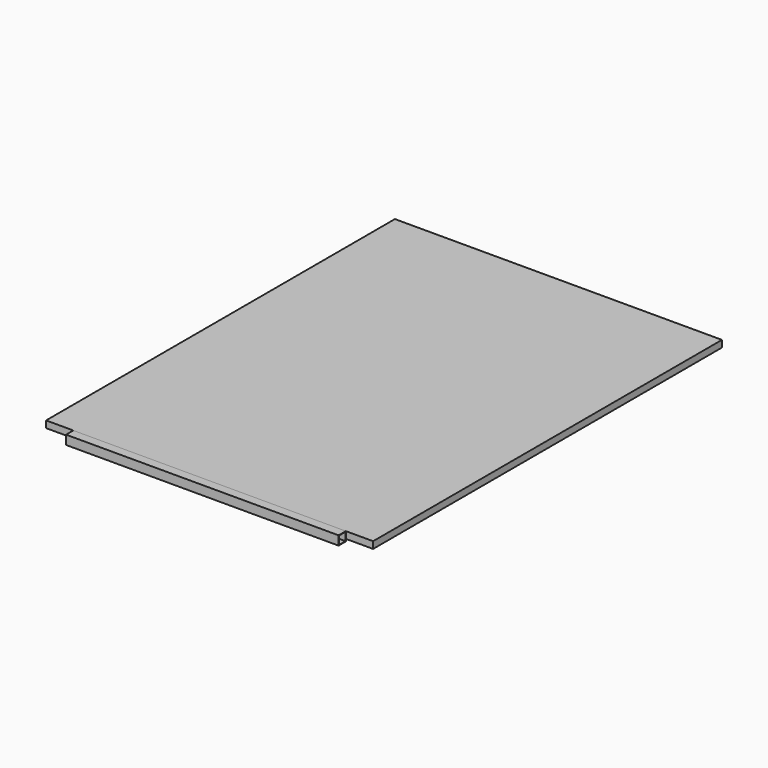
from build123d import *

# Parameters (mm, degrees)
F0_W     = 1828.8
F0_H     = 2438.4
F1_DEPTH = 38.1
F2_W     = 1524
F2_H     = 50.8
F3_DEPTH = 50.8
F4_T     = -2.54


with BuildPart() as f1:
    # F0 (on Top) → F1 (new body)
    with BuildSketch(Plane.XY):
        Rectangle(F0_W, F0_H)
    extrude(amount=F1_DEPTH)


with BuildPart() as f3:
    # F2 (on face) → F3 (new body)
    with BuildSketch(Plane.XY.offset(38.1)):
        with Locations((0, -1244.6)):
            Rectangle(F2_W, F2_H)
    extrude(amount=-F3_DEPTH)

    # F4
    f4_openings = [f3.faces().sort_by_distance(p)[0] for p in [
        (762, -1244.6, 12.7),
        (-762, -1244.6, 12.7),
    ]]
    offset(amount=F4_T, openings=f4_openings)


solid = Compound([f1.part, f3.part])
